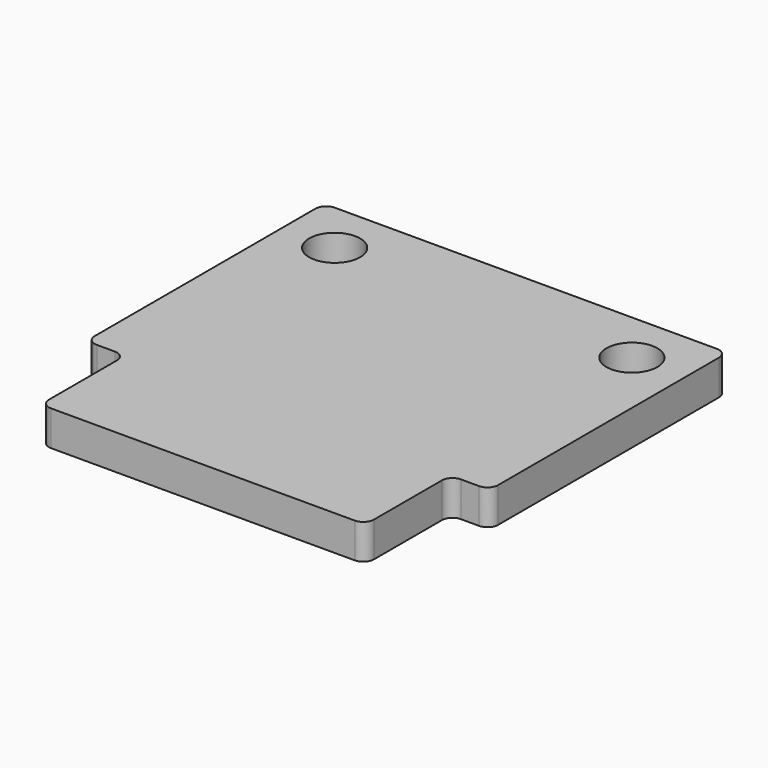
from build123d import *

# Parameters (mm, degrees)
SKETCH_R  = 1.2
PAD_DEPTH = 1.65


with BuildPart() as part:
    # Sketch → Pad (new body)
    with BuildSketch(Plane.XY):
        with BuildLine():
            Line((-9, 6.5), (9, 6.5))
            ThreePointArc((9.5, 6), (9.353553, 6.353553), (9, 6.5))
            Line((9.5, 6), (9.5, -7))
            ThreePointArc((9, -7.5), (9.353553, -7.353553), (9.5, -7))
            Line((9, -7.5), (8.15, -7.5))
            ThreePointArc((8.15, -7.5), (7.796447, -7.646447), (7.65, -8))
            Line((7.65, -8), (7.65, -12))
            ThreePointArc((7.15, -12.5), (7.503553, -12.353553), (7.65, -12))
            Line((7.15, -12.5), (-7.15, -12.5))
            ThreePointArc((-7.65, -12), (-7.503553, -12.353553), (-7.15, -12.5))
            Line((-7.65, -12), (-7.65, -8))
            ThreePointArc((-7.65, -8), (-7.796447, -7.646447), (-8.15, -7.5))
            Line((-8.15, -7.5), (-9, -7.5))
            ThreePointArc((-9.5, -7), (-9.353553, -7.353553), (-9, -7.5))
            Line((-9.5, -7), (-9.5, 6))
            ThreePointArc((-9, 6.5), (-9.353553, 6.353553), (-9.5, 6))
        make_face()
        with Locations((-7, 4)):
            Circle(SKETCH_R, mode=Mode.SUBTRACT)
        with Locations((7, 4)):
            Circle(SKETCH_R, mode=Mode.SUBTRACT)
    extrude(amount=PAD_DEPTH)


solid = part.part
